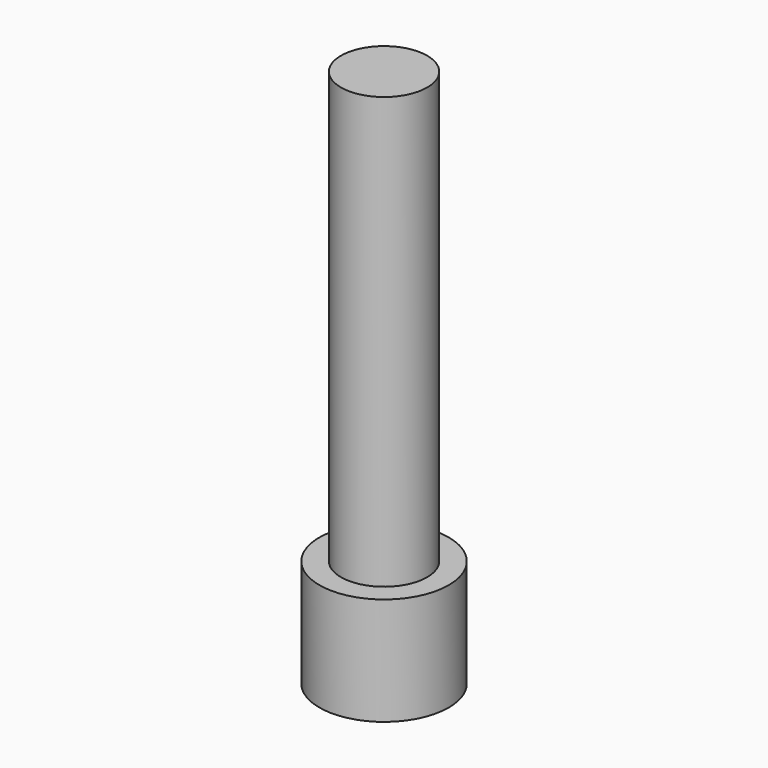
from build123d import *

# Parameters (mm, degrees)
F0_R     = 6
F1_DEPTH = 10
F2_R     = 4
F3_DEPTH = 40
F5_DEPTH = 5


with BuildPart() as f1:
    # F0 (on Top) → F1 (new body)
    with BuildSketch(Plane.XY):
        Circle(F0_R)
    extrude(amount=F1_DEPTH)

    # F2 (on face) → F3 (join)
    with BuildSketch(Plane.XY.offset(10)):
        Circle(F2_R)
    extrude(amount=F3_DEPTH)

    # F4 (on face) → F5 (cut)
    with BuildSketch(Plane(origin=(0, 0, 0), x_dir=(1, 0, 0), z_dir=(0, 0, -1))):
        Polygon((0.225092, -4.191569), (3.742551, -1.900849), (3.517459, 2.29072), (-0.225092, 4.191569), (-3.742551, 1.900849), (-3.517459, -2.29072), align=None)
    extrude(amount=-F5_DEPTH, mode=Mode.SUBTRACT)


solid = f1.part
